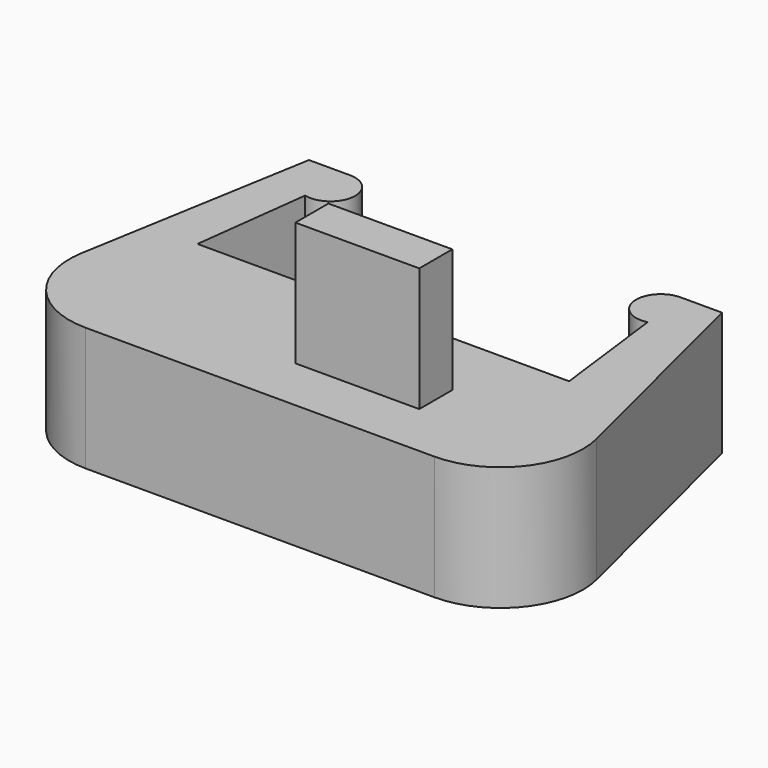
from build123d import *

# Parameters (mm, degrees)
F1_DEPTH = 1.5
F2_W     = 1.5
F2_H     = 0.5
F3_DEPTH = 1.5


with BuildPart() as f1:
    # F0 (on Top) → F1 (new body)
    with BuildSketch(Plane.XY):
        with BuildLine():
            Line((19.310524, 15.238866), (19.486678, 16.648096))
            ThreePointArc((19.486678, 16.648096), (19.858208, 16.901655), (19.560524, 17.238866))
            Line((19.560524, 17.238866), (19.060524, 17.238866))
            Line((19.060524, 17.238866), (18.572963, 14.408634))
            ThreePointArc((18.572963, 14.408634), (18.79367, 13.594571), (19.558447, 13.238866))
            Line((19.558447, 13.238866), (23.779748, 13.238866))
            ThreePointArc((23.779748, 13.238866), (24.567953, 13.623453), (24.74989, 14.481401))
            Line((24.74989, 14.481401), (24.060524, 17.238866))
            Line((24.060524, 17.238866), (23.560524, 17.238866))
            ThreePointArc((23.560524, 17.238866), (23.262841, 16.901655), (23.63437, 16.648096))
            Line((23.63437, 16.648096), (23.810524, 15.238866))
            Line((23.810524, 15.238866), (19.310524, 15.238866))
        make_face()
    extrude(amount=F1_DEPTH)

    # F2 (on face) → F3 (join)
    with BuildSketch(Plane.XY.offset(1.5)):
        with Locations((22.310524, 14.158634)):
            Rectangle(F2_W, F2_H)
    extrude(amount=F3_DEPTH)


solid = f1.part
